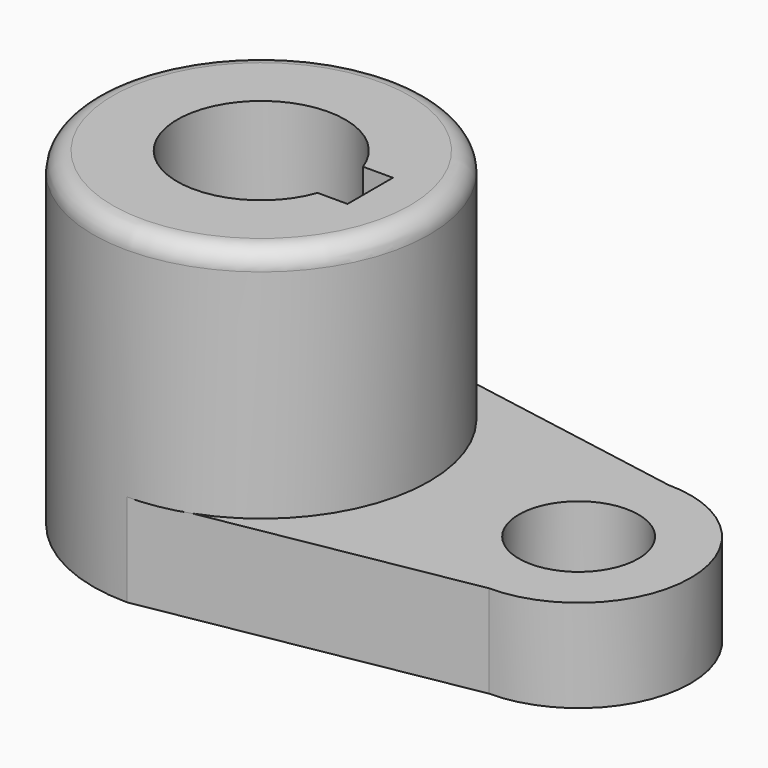
from build123d import *

# Parameters (mm, degrees)
F0_R     = 10.16
F1_DEPTH = 15.7734
F2_R     = 28.575
F3_DEPTH = 40.2336
F4_R     = 3.302


with BuildPart() as f1:
    # F0 (on Top) → F1 (new body)
    with BuildSketch(Plane.XY):
        with BuildLine():
            Line((53.975, 19.05), (0, 28.575))
            ThreePointArc((0, 28.575), (-28.575, 0), (0, -28.575))
            Line((0, -28.575), (53.975, -19.05))
            ThreePointArc((53.975, -19.05), (73.025, 0), (53.975, 19.05))
        make_face()
        with BuildLine():
            ThreePointArc((13.447765, -4.826), (-14.2875, 0), (13.447765, 4.826))
            Line((13.447765, 4.826), (18.5293, 4.826))
            Line((18.5293, 4.826), (18.5293, -4.826))
            Line((18.5293, -4.826), (13.447765, -4.826))
        make_face(mode=Mode.SUBTRACT)
        with Locations((53.975, 0)):
            Circle(F0_R, mode=Mode.SUBTRACT)
    extrude(amount=F1_DEPTH)

    # F2 (on face) → F3 (join)
    with BuildSketch(Plane.XY.offset(15.7734)):
        Circle(F2_R)
        with BuildLine():
            ThreePointArc((13.447765, -4.826), (-14.2875, 0), (13.447765, 4.826))
            Line((13.447765, 4.826), (18.5293, 4.826))
            Line((18.5293, 4.826), (18.5293, -4.826))
            Line((18.5293, -4.826), (13.447765, -4.826))
        make_face(mode=Mode.SUBTRACT)
    extrude(amount=F3_DEPTH)

    # F4
    f4_edges = [f1.edges().sort_by_distance(p)[0] for p in [
        (-28.575, 0, 56.007),
    ]]
    fillet(f4_edges, radius=F4_R)


solid = f1.part
